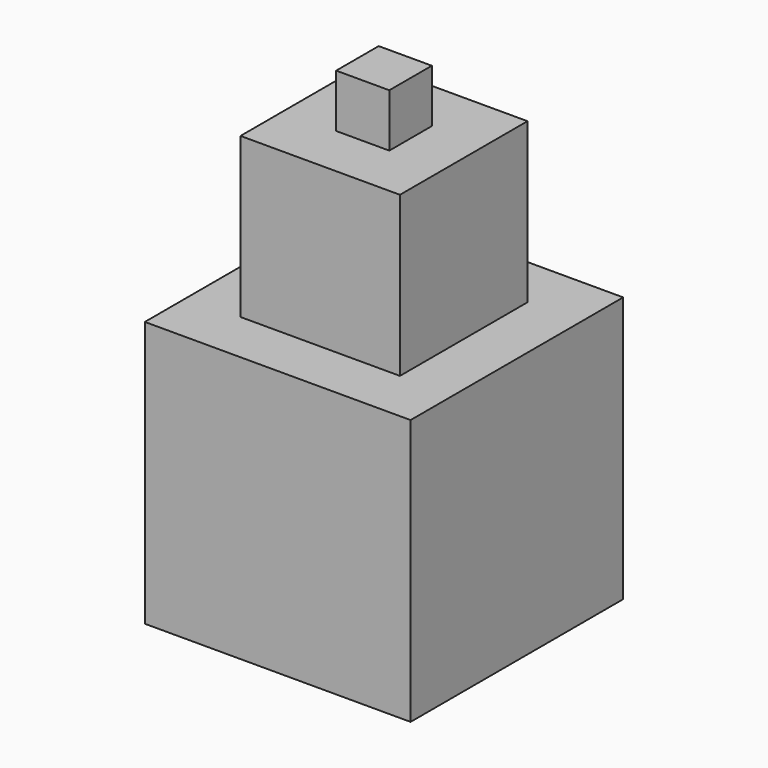
from build123d import *

# Parameters (mm, degrees)
F0_W     = 2540
F0_H     = 2540
F1_DEPTH = 2540
F2_W     = 1524
F2_H     = 1524
F3_DEPTH = 1524
F4_W     = 508
F4_H     = 508
F5_DEPTH = 508
F6_W     = 1270
F6_H     = 1270
F7_DEPTH = 1270


with BuildPart() as f1:
    # F0 (on Top) → F1 (new body)
    with BuildSketch(Plane.XY):
        Rectangle(F0_W, F0_H)
    extrude(amount=F1_DEPTH)

    # F2 (on face) → F3 (join)
    with BuildSketch(Plane.XY.offset(2540)):
        Rectangle(F2_W, F2_H)
    extrude(amount=F3_DEPTH)

    # F4 (on face) → F5 (join)
    with BuildSketch(Plane.XY.offset(4064)):
        Rectangle(F4_W, F4_H)
    extrude(amount=F5_DEPTH)

    # F6 (on face) → F7 (cut)
    with BuildSketch(Plane(origin=(0, 0, 0), x_dir=(1, 0, 0), z_dir=(0, 0, -1))):
        Rectangle(F6_W, F6_H)
    extrude(amount=-F7_DEPTH, mode=Mode.SUBTRACT)


solid = f1.part
